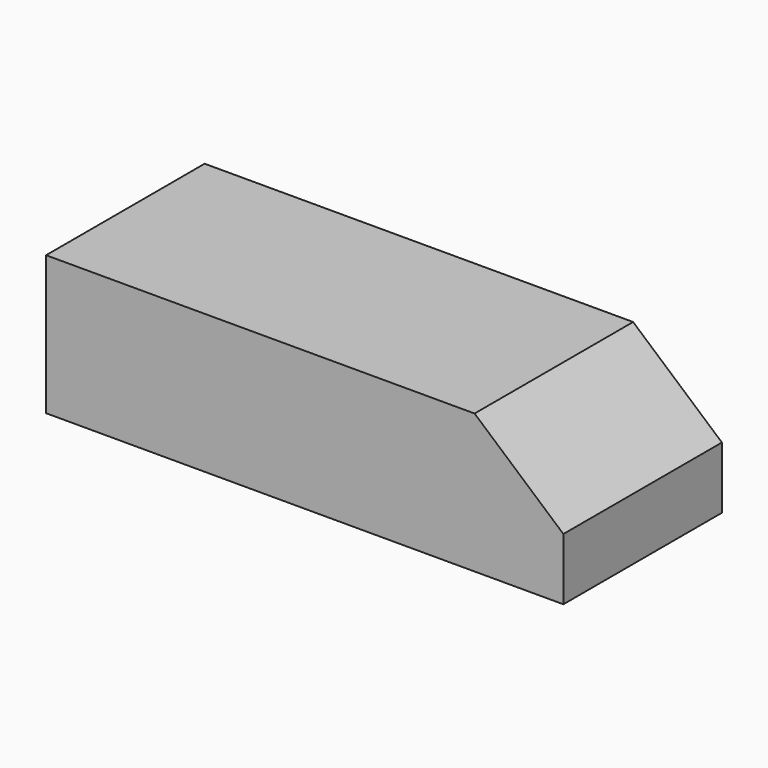
from build123d import *

# Parameters (mm, degrees)
F1_DEPTH = 55
F2_W     = 100
F2_H     = 29.0322554066
F3_DEPTH = 25
F4_W     = 5.3750351071
F4_H     = 18.072870967
F5_DEPTH = 29.0322554066


with BuildPart() as f1:
    # F0 (on Front) → F1 (new body)
    with BuildSketch(Plane.XZ):
        Polygon((-76.8667086959, -30.5658673523), (66.6892379522, -30.5658673523), (66.6892379522, -13.3914127946), (42.04903543, 8.0348476768), (-76.8667086959, 8.0348476768), align=None)
    extrude(amount=F1_DEPTH)

    # F2 (on face) → F3 (cut)
    with BuildSketch(Plane(origin=(0, 0, -30.5658673523), x_dir=(1, 0, 0), z_dir=(0, 0, -1))):
        with Locations((-3.8809403777, 27.016880922)):
            Rectangle(F2_W, F2_H)
    extrude(amount=-F3_DEPTH, mode=Mode.SUBTRACT)

    # F4 (on face) → F5 (join, through all)
    with BuildSketch(Plane(origin=(0, -41.5330086253, 0), x_dir=(-1, 0, 0), z_dir=(0, 1, 0))):
        with Locations((34.9972322583, -14.6023028358)):
            Rectangle(F4_W, F4_H)
    extrude(amount=F5_DEPTH)


solid = f1.part
